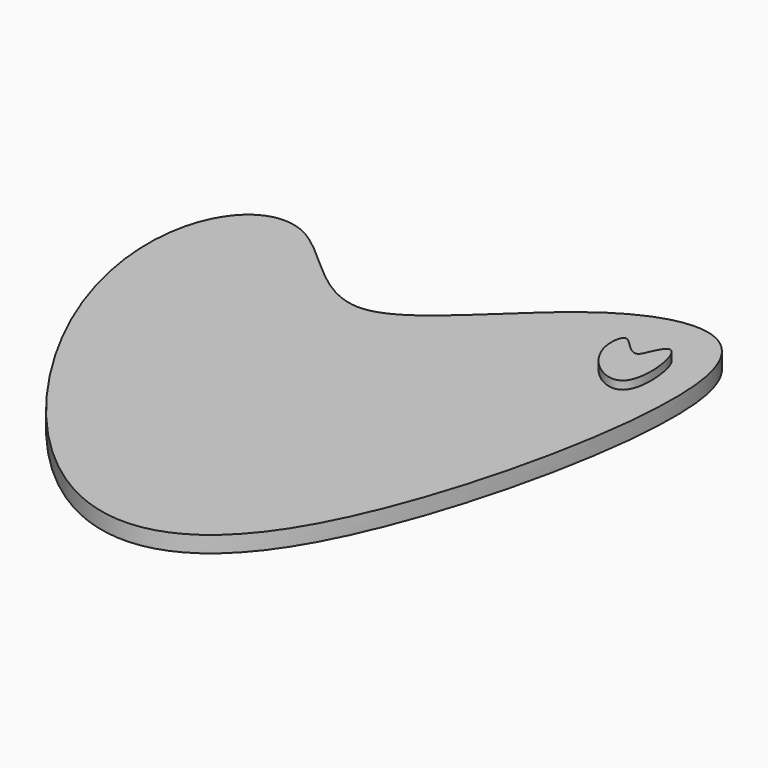
from build123d import *

# Parameters (mm, degrees)
EXTRUDE004_DEPTH = 4
EXTRUDE003_DEPTH = 6


with BuildPart() as heart:
    # Sketch002 → Extrude004 (new body)
    with BuildSketch(Plane.XY):
        with BuildLine():
            add(Edge.make_bspline(
                [(51.427337, 48.250748), (65.296083, 57.51073), (96.705849, 60.535873), (65.792378, -78.022604), (14.984616, -83.29459), (-33.279233, -16.502122), (-38.205514, 32.887674), (-15.071922, 47.613376), (13.49337, 4.975979), (37.55859, 38.990766), (51.427337, 48.250748)],
                knots=[0, 0, 0, 0, 0.125, 0.25, 0.375, 0.5, 0.625, 0.75, 0.875, 1, 1, 1, 1], degree=3))
        make_face()
    extrude(amount=EXTRUDE004_DEPTH)


with BuildPart() as base:
    # Sketch001 → Extrude003 (new body)
    with BuildSketch(Plane(origin=(-5, 0, 0), x_dir=(1, 0, 0), z_dir=(0, 0, 1))):
        with BuildLine():
            add(Edge.make_bspline(
                [(75.3494, 37.0045), (76.42788, 39.752157), (79.987988, 45.201795), (84.547004, 16.279999), (65.993665, 30.045028), (68.445934, 42.898526), (73.787962, 33.026402), (75.3494, 37.0045)],
                knots=[0, 0, 0, 0, 4.937165, 20.471043, 36.199909, 39.924844, 47.072943, 47.072943, 47.072943, 47.072943], degree=3))
        make_face()
    extrude(amount=EXTRUDE003_DEPTH)

    # Fusion001: union Heart
    add(heart.part)


solid = base.part
